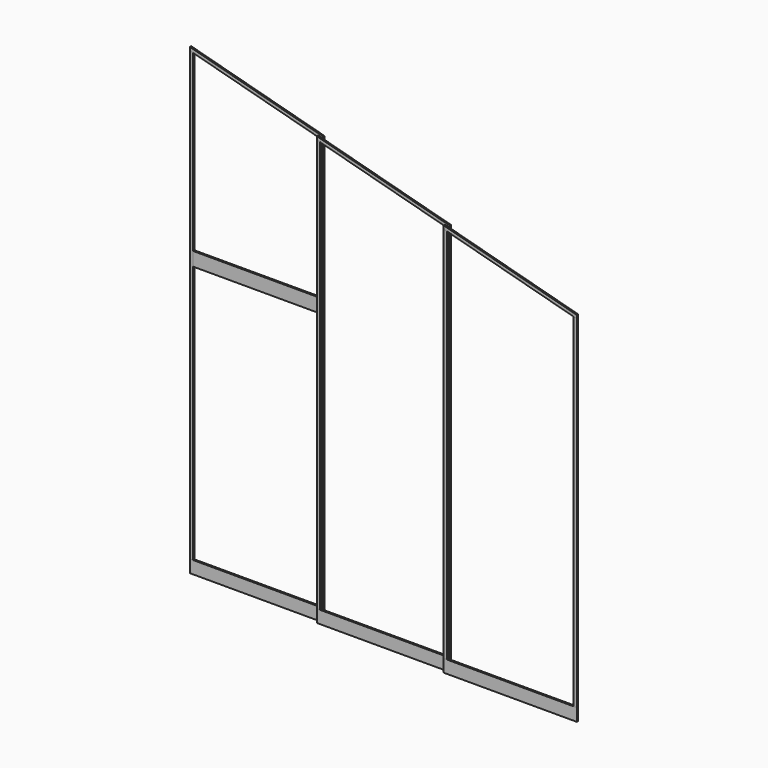
from build123d import *

# Parameters (mm, degrees)
F5_DEPTH  = 14
F6_DEPTH  = 14
F7_DEPTH  = 14
F8_DEPTH  = 14
F9_START  = 33
F9_DEPTH  = 14
F10_START = 33
F10_DEPTH = 14
F11_START = 33
F11_DEPTH = 14
F12_START = 33
F12_DEPTH = 14
F13_START = 66
F13_DEPTH = 14
F14_START = 66
F14_DEPTH = 14
F15_START = 66
F15_DEPTH = 14
F16_START = 66
F16_DEPTH = 14
F3_W      = 1106
F3_H      = 120
F17_DEPTH = 14


with BuildPart() as f5:
    # F3 (on Front) → F5 (new body)
    with BuildSketch(Plane.XZ):
        Polygon((1277.9065368968, 4042), (1277.9065368968, 4013.0145174139), (1305.9065368968, 4005.5206398629), (2411.9065368968, 3709.5124765976), (2439.9065368968, 3702.0185990465), (2439.9065368968, 3731.0040816327), align=None)
    extrude(amount=F5_DEPTH)


with BuildPart() as f6:
    # F3 (on Front) → F6 (new body)
    with BuildSketch(Plane.XZ):
        Polygon((2411.9065368968, 2363.5847568512), (2411.9065368968, 110), (2439.9065368968, 110), (2439.9065368968, 3702.0185990465), (2411.9065368968, 3709.5124765976), (2411.9065368968, 2483.5847568512), align=None)
    extrude(amount=F6_DEPTH)


with BuildPart() as f7:
    # F3 (on Front) → F7 (new body)
    with BuildSketch(Plane.XZ):
        Polygon((1277.9065368968, 4013.0145174139), (1277.9065368968, 110), (1305.9065368968, 110), (1305.9065368968, 2363.5847568512), (1305.9065368968, 2483.5847568512), (1305.9065368968, 4005.5206398629), align=None)
    extrude(amount=F7_DEPTH)


with BuildPart() as f8:
    # F3 (on Front) → F8 (new body)
    with BuildSketch(Plane.XZ):
        Polygon((1277.9065368968, 110), (1277.9065368968, 0), (2411.9065368968, 0), (2439.9065368968, 0), (2439.9065368968, 110), (2411.9065368968, 110), (1305.9065368968, 110), align=None)
    extrude(amount=F8_DEPTH)


with BuildPart() as f9:
    # F4 (on Front) → F9 (new body)
    with BuildSketch(Plane.XZ.offset(F9_START)):
        Polygon((2411.9065368968, 3738.4979591837), (2411.9065368968, 3709.5124765976), (2439.9065368968, 3702.0185990465), (3545.9065368968, 3406.0104357812), (3573.9065368968, 3398.5165582302), (3573.9065368968, 3427.5020408163), align=None)
    extrude(amount=F9_DEPTH)


with BuildPart() as f10:
    # F4 (on Front) → F10 (new body)
    with BuildSketch(Plane.XZ.offset(F10_START)):
        Polygon((2411.9065368968, 3709.5124765976), (2411.9065368968, 110), (2439.9065368968, 110), (2439.9065368968, 3702.0185990465), align=None)
    extrude(amount=F10_DEPTH)


with BuildPart() as f11:
    # F4 (on Front) → F11 (new body)
    with BuildSketch(Plane.XZ.offset(F11_START)):
        Polygon((3545.9065368968, 3406.0104357812), (3545.9065368968, 110), (3573.9065368968, 110), (3573.9065368968, 3398.5165582302), align=None)
    extrude(amount=F11_DEPTH)


with BuildPart() as f12:
    # F4 (on Front) → F12 (new body)
    with BuildSketch(Plane.XZ.offset(F12_START)):
        Polygon((2439.9065368968, 110), (2411.9065368968, 110), (2411.9065368968, 0), (3573.9065368968, 0), (3573.9065368968, 110), (3545.9065368968, 110), align=None)
    extrude(amount=F12_DEPTH)


with BuildPart() as f13:
    # F3 (on Front) → F13 (new body)
    with BuildSketch(Plane.XZ.offset(F13_START)):
        Polygon((4679.9065368968, 3102.5083949649), (4707.9065368968, 3095.0145174139), (4707.9065368968, 3124), (3545.9065368968, 3434.9959183673), (3545.9065368968, 3406.0104357812), (3573.9065368968, 3398.5165582302), align=None)
    extrude(amount=F13_DEPTH)


with BuildPart() as f14:
    # F3 (on Front) → F14 (new body)
    with BuildSketch(Plane.XZ.offset(F14_START)):
        Polygon((3545.9065368968, 3406.0104357812), (3545.9065368968, 110), (3573.9065368968, 110), (3573.9065368968, 3398.5165582302), align=None)
    extrude(amount=F14_DEPTH)


with BuildPart() as f15:
    # F3 (on Front) → F15 (new body)
    with BuildSketch(Plane.XZ.offset(F15_START)):
        Polygon((4679.9065368968, 110), (4707.9065368968, 110), (4707.9065368968, 3095.0145174139), (4679.9065368968, 3102.5083949649), align=None)
    extrude(amount=F15_DEPTH)


with BuildPart() as f16:
    # F3 (on Front) → F16 (new body)
    with BuildSketch(Plane.XZ.offset(F16_START)):
        Polygon((3545.9065368968, 0), (4707.9065368968, 0), (4707.9065368968, 110), (4679.9065368968, 110), (3573.9065368968, 110), (3545.9065368968, 110), align=None)
    extrude(amount=F16_DEPTH)


with BuildPart() as f17:
    # F3 (on Front) → F17 (new body)
    with BuildSketch(Plane.XZ):
        with Locations((1858.9065368968, 2423.5847568512)):
            Rectangle(F3_W, F3_H)
    extrude(amount=F17_DEPTH)


solid = Compound([f5.part, f6.part, f7.part, f8.part, f9.part, f10.part, f11.part, f12.part, f13.part, f14.part, f15.part, f16.part, f17.part])
